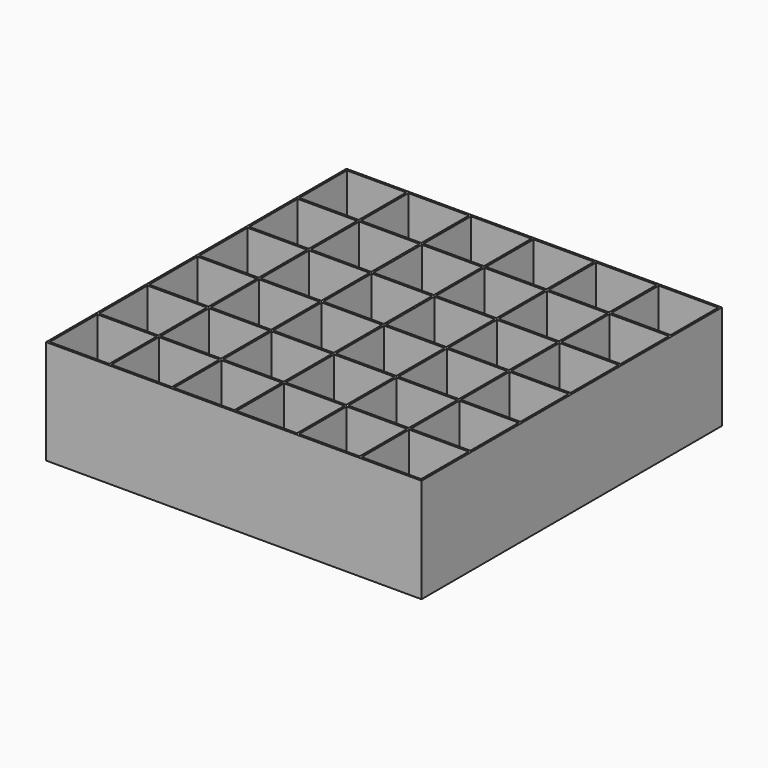
from build123d import *

# Parameters (mm, degrees)
SKETCH_W      = 180
SKETCH_H      = 180
PAD_DEPTH     = 50
SKETCH001_W   = 28.499999
SKETCH001_H   = 28.499999
SKETCH001_W_2 = 28.5
SKETCH001_H_2 = 29.000001
SKETCH001_H_3 = 29
SKETCH001_W_3 = 29.000001
SKETCH001_H_4 = 28.5
SKETCH001_W_4 = 28.977006
SKETCH001_W_5 = 29
SKETCH001_W_6 = 28.975581
POCKET_DEPTH  = 49


with BuildPart() as part:
    # Sketch → Pad (new body)
    with BuildSketch(Plane.XY):
        Rectangle(SKETCH_W, SKETCH_H)
    extrude(amount=PAD_DEPTH)

    # Sketch001 (on Face6 of Pad) → Pocket (cut)
    with BuildSketch(Plane.XY.offset(50)):
        with Locations((-74.75, 74.75)):
            Rectangle(SKETCH001_W, SKETCH001_H)
        with Locations((-74.750001, 45)):
            Rectangle(SKETCH001_W_2, SKETCH001_H_2)
        with Locations((-74.750001, 15)):
            Rectangle(SKETCH001_W_2, SKETCH001_H_3)
        with Locations((-45, 74.750001)):
            Rectangle(SKETCH001_W_3, SKETCH001_H_4)
        with Locations((-45.011498, 45)):
            Rectangle(SKETCH001_W_4, SKETCH001_H_2)
        with Locations((-45, 15)):
            Rectangle(SKETCH001_W_3, SKETCH001_H_3)
        with Locations((-15, 74.750001)):
            Rectangle(SKETCH001_W_5, SKETCH001_H_4)
        with Locations((-15, 45)):
            Rectangle(SKETCH001_W_5, SKETCH001_H_2)
        with Locations((-15, 15)):
            Rectangle(SKETCH001_W_5, SKETCH001_H_3)
        with Locations((15, 74.750001)):
            Rectangle(SKETCH001_W_5, SKETCH001_H_4)
        with Locations((15, 45)):
            Rectangle(SKETCH001_W_5, SKETCH001_H_2)
        with Locations((15.01221, 15)):
            Rectangle(SKETCH001_W_6, SKETCH001_H_3)
        with Locations((15, -15)):
            Rectangle(SKETCH001_W_5, SKETCH001_H_3)
        with Locations((15, -45)):
            Rectangle(SKETCH001_W_5, SKETCH001_H_2)
        with Locations((15, -74.750001)):
            Rectangle(SKETCH001_W_5, SKETCH001_H_4)
        with Locations((-74.750001, -15)):
            Rectangle(SKETCH001_W_2, SKETCH001_H_3)
        with Locations((-45, -15)):
            Rectangle(SKETCH001_W_3, SKETCH001_H_3)
        with Locations((-15, -15)):
            Rectangle(SKETCH001_W_5, SKETCH001_H_3)
        with Locations((-15, -45)):
            Rectangle(SKETCH001_W_5, SKETCH001_H_2)
        with Locations((-15, -74.750001)):
            Rectangle(SKETCH001_W_5, SKETCH001_H_4)
        with Locations((-74.750001, -45)):
            Rectangle(SKETCH001_W_2, SKETCH001_H_2)
        with Locations((-45, -45)):
            Rectangle(SKETCH001_W_3, SKETCH001_H_2)
        with Locations((-45, -74.750001)):
            Rectangle(SKETCH001_W_3, SKETCH001_H_4)
        with Locations((-74.750001, -74.750001)):
            Rectangle(SKETCH001_W_2, SKETCH001_H_4)
        with Locations((45, 74.750001)):
            Rectangle(SKETCH001_W_3, SKETCH001_H_4)
        with Locations((45, 45)):
            Rectangle(SKETCH001_W_3, SKETCH001_H_2)
        with Locations((45, 15)):
            Rectangle(SKETCH001_W_3, SKETCH001_H_3)
        with Locations((45, -15)):
            Rectangle(SKETCH001_W_3, SKETCH001_H_3)
        with Locations((45, -45)):
            Rectangle(SKETCH001_W_3, SKETCH001_H_2)
        with Locations((45, -74.750001)):
            Rectangle(SKETCH001_W_3, SKETCH001_H_4)
        with Locations((74.750001, 74.750001)):
            Rectangle(SKETCH001_W_2, SKETCH001_H_4)
        with Locations((74.750001, 45)):
            Rectangle(SKETCH001_W_2, SKETCH001_H_2)
        with Locations((74.750001, 15)):
            Rectangle(SKETCH001_W_2, SKETCH001_H_3)
        with Locations((74.750001, -15)):
            Rectangle(SKETCH001_W_2, SKETCH001_H_3)
        with Locations((74.750001, -45)):
            Rectangle(SKETCH001_W_2, SKETCH001_H_2)
        with Locations((74.750001, -74.750001)):
            Rectangle(SKETCH001_W_2, SKETCH001_H_4)
    extrude(amount=-POCKET_DEPTH, mode=Mode.SUBTRACT)


solid = part.part
